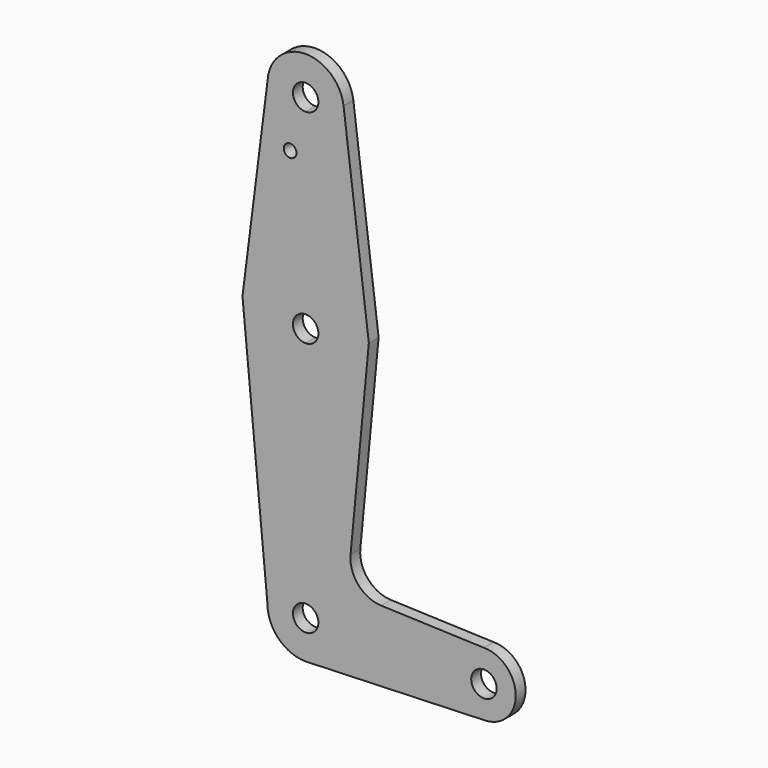
from build123d import *

# Parameters (mm, degrees)
F0_R     = 1.5875
F1_DEPTH = 3.048


with BuildPart() as f1:
    # F0 (on Front) → F1 (new body)
    with BuildSketch(Plane.XZ):
        with BuildLine():
            Line((-9.513743023, 114.7629456697), (-15.7493667731, 65.4932564431))
            ThreePointArc((-15.7493667731, 65.4932564431), (-10.4969681091, 75.4092101131), (0, 79.375))
            Line((0, 79.375), (0, 104.775))
            ThreePointArc((0, 104.775), (-6.8969262177, 107.7305225666), (-9.513743023, 114.7629456697))
        make_face()
        with Locations((-3.8757044822, 101.3265773654)):
            Circle(F0_R, mode=Mode.SUBTRACT)
        with BuildLine():
            Line((-9.3291057051, 116.2218251071), (-9.513743023, 114.7629456697))
            ThreePointArc((-9.513743023, 114.7629456697), (-6.8969262177, 107.7305225666), (0, 104.775))
            ThreePointArc((0, 104.775), (6.7351920908, 107.5648079092), (9.525, 114.3))
            ThreePointArc((9.525, 114.3), (9.5052764364, 114.9126539546), (9.4461874293, 115.5227706452))
            ThreePointArc((9.4461874293, 115.5227706452), (0.3543957078, 123.8184047341), (-9.3291057051, 116.2218251071))
        make_face()
        with BuildLine():
            ThreePointArc((3.175, 114.3), (2.2450640303, 112.0549359697), (0, 111.125))
            ThreePointArc((0, 111.125), (-2.2450640303, 116.5450640303), (3.175, 114.3))
        make_face(mode=Mode.SUBTRACT)
        with BuildLine():
            Line((15.7504861046, 65.4843922166), (9.4461874293, 115.5227706452))
            ThreePointArc((9.4461874293, 115.5227706452), (9.5052764364, 114.9126539546), (9.525, 114.3))
            ThreePointArc((9.525, 114.3), (6.7351920908, 107.5648079092), (0, 104.775))
            Line((0, 104.775), (0, 79.375))
            ThreePointArc((0, 79.375), (10.5003190085, 75.4062557389), (15.7504861046, 65.4843922166))
        make_face()
        with BuildLine():
            Line((0, 60.325), (0, 47.625))
            ThreePointArc((0, 47.625), (9.3263613054, 50.6534203073), (15.0944055122, 58.5832381353))
            Line((15.0944055122, 58.5832381353), (15.7504861046, 65.4843922166))
            ThreePointArc((15.7504861046, 65.4843922166), (10.5003190085, 75.4062557389), (0, 79.375))
            Line((0, 79.375), (0, 66.675))
            ThreePointArc((0, 66.675), (2.2450640303, 65.7450640303), (3.175, 63.5))
            ThreePointArc((3.175, 63.5), (2.2450640303, 61.2549359697), (0, 60.325))
        make_face()
        with BuildLine():
            ThreePointArc((-15.0919283471, 58.5756397608), (-9.3231273241, 50.6510731227), (0, 47.625))
            Line((0, 47.625), (0, 60.325))
            ThreePointArc((0, 60.325), (-3.175, 63.5), (0, 66.675))
            Line((0, 66.675), (0, 79.375))
            ThreePointArc((0, 79.375), (-10.4969681091, 75.4092101131), (-15.7493667731, 65.4932564431))
            Line((-15.7493667731, 65.4932564431), (-15.0919283471, 58.5756397608))
        make_face()
        with BuildLine():
            ThreePointArc((-9.525, 0), (-6.7351920908, 6.7351920908), (0, 9.525))
            Line((0, 9.525), (0, 47.625))
            ThreePointArc((0, 47.625), (-9.3231273241, 50.6510731227), (-15.0919283471, 58.5756397608))
            Line((-15.0919283471, 58.5756397608), (-9.525, 0))
        make_face()
        with BuildLine():
            Line((0, 47.625), (0, 9.525))
            ThreePointArc((0, 9.525), (6.7351920908, 6.7351920908), (9.525, 0))
            Line((9.525, 0), (36.5125, 0))
            ThreePointArc((36.5125, 0), (38.8373399243, 5.6126600757), (44.45, 7.9375))
            Line((44.45, 7.9375), (18.8234742416, 8.8562611495))
            ThreePointArc((18.8234742416, 8.8562611495), (13.1317777992, 11.5585896355), (11.1938066067, 17.5537756457))
            Line((11.1938066067, 17.5537756457), (15.0944055122, 58.5832381353))
            ThreePointArc((15.0944055122, 58.5832381353), (9.3263613054, 50.6534203073), (0, 47.625))
        make_face()
        with BuildLine():
            Line((36.5125, 0), (9.525, 0))
            ThreePointArc((9.525, 0), (6.9705567315, -6.4912990883), (0.6773435479, -9.500885786))
            Line((0.6773435479, -9.500885786), (44.7324052746, -7.9324746146))
            ThreePointArc((44.7324052746, -7.9324746146), (38.9380895153, -5.7116327839), (36.5125, 0))
        make_face()
        with BuildLine():
            Line((0, 9.525), (0, 3.175))
            ThreePointArc((0, 3.175), (2.2450640303, 2.2450640303), (3.175, 0))
            Line((3.175, 0), (9.525, 0))
            ThreePointArc((9.525, 0), (6.7351920908, 6.7351920908), (0, 9.525))
        make_face()
        with BuildLine():
            ThreePointArc((3.175, 0), (-2.2450640303, -2.2450640303), (0, 3.175))
            Line((0, 3.175), (0, 9.525))
            ThreePointArc((0, 9.525), (-6.7351920908, 6.7351920908), (-9.525, 0))
            ThreePointArc((-9.525, 0), (-6.7351920908, -6.7351920908), (0, -9.525))
            Line((0, -9.525), (0.6773435479, -9.500885786))
            ThreePointArc((0.6773435479, -9.500885786), (6.9705567315, -6.4912990883), (9.525, 0))
            Line((9.525, 0), (3.175, 0))
        make_face()
        with BuildLine():
            ThreePointArc((44.45, 7.9375), (38.8373399243, 5.6126600757), (36.5125, 0))
            ThreePointArc((36.5125, 0), (38.9380895153, -5.7116327839), (44.7324052746, -7.9324746146))
            ThreePointArc((44.7324052746, -7.9324746146), (50.1616327839, -5.5119104847), (52.3875, 0))
            ThreePointArc((52.3875, 0), (50.0626600757, 5.6126600757), (44.45, 7.9375))
        make_face()
        with BuildLine():
            ThreePointArc((47.625, 0), (44.45, -3.175), (41.275, 0))
            ThreePointArc((41.275, 0), (44.45, 3.175), (47.625, 0))
        make_face(mode=Mode.SUBTRACT)
    extrude(amount=F1_DEPTH)


solid = f1.part
